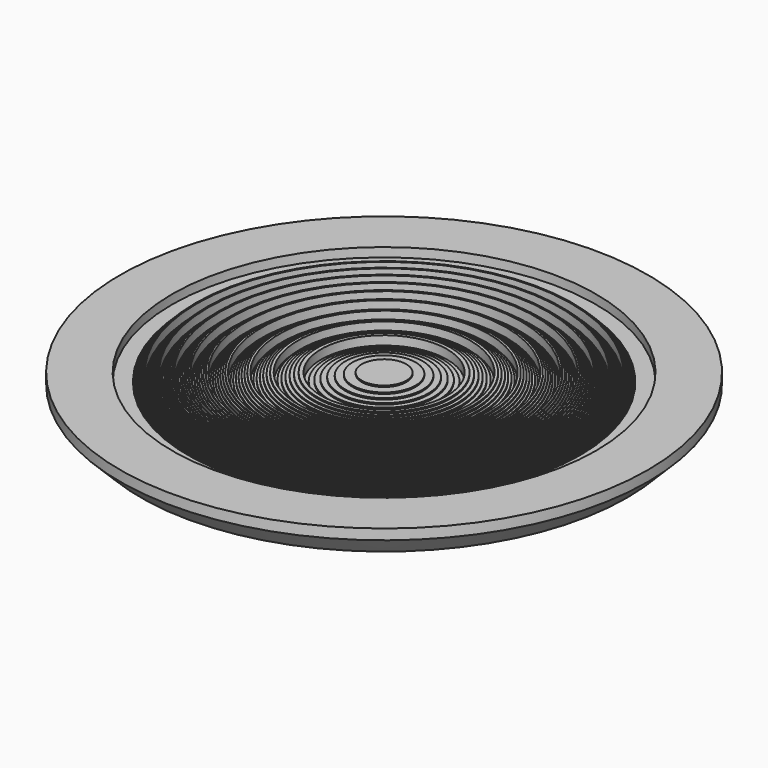
from build123d import *

# Parameters (mm, degrees)
F2_SIZE = 2


with BuildPart() as f1:
    # F0 (on Front) → F1 (revolve)
    with BuildSketch(Plane.XZ):
        Polygon((-10.558, 1.373492), (-10.558, 1.501507), (-12.7, 1.498492), (-12.7, -1.501508), (12.7, -1.501508), (12.7, 1.498492), (7.7, 1.498492), (7.7, 0.623492), (6.174, 0.623492), (6.174, 0.748492), (6.05, 0.748492), (6.05, 0.873492), (5.925, 0.873492), (5.925, 0.998492), (5.8, 0.998492), (5.8, 1.123492), (5.673, 1.123492), (5.673, 1.248492), (5.546, 1.248492), (5.546, 1.373492), (5.418, 1.373492), (5.418, 1.498492), (5.289, 1.498492), (5.289, 0.623492), (5.159, 0.623492), (5.159, 0.748492), (5.028, 0.748492), (5.028, 0.873492), (4.896, 0.873492), (4.896, 0.998492), (4.763, 0.998492), (4.763, 1.123492), (4.628998, 1.123492), (4.628998, 1.248492), (4.494, 1.248492), (4.494, 1.373492), (4.359, 1.373492), (4.359, 1.498492), (4.222, 1.498492), (4.222, 0.623492), (4.084, 0.623492), (4.084, 0.748492), (3.945, 0.748492), (3.945, 0.873492), (3.804, 0.873492), (3.804, 0.998492), (3.663, 0.998492), (3.663, 1.123492), (3.52, 1.123492), (3.52, 1.248492), (3.377, 1.248492), (3.377, 1.373492), (3.232, 1.373492), (3.232, 1.498492), (3.085, 1.498492), (3.085, 0.623492), (2.937, 0.623492), (2.937, 0.748492), (2.788, 0.748492), (2.788, 0.873492), (2.637998, 0.873492), (2.637998, 0.998492), (2.486, 0.998492), (2.486, 1.123492), (2.332, 1.123492), (2.332, 1.248492), (2.177, 1.248492), (2.177, 1.373492), (2.021, 1.373492), (2.021, 1.498492), (1.862, 1.498492), (1.862, 0.623492), (1.702, 0.623492), (1.702, 0.748492), (1.541, 0.748492), (1.541, 0.873492), (1.377, 0.873492), (1.377, 0.998492), (1.212, 0.998492), (1.212, 1.123492), (1.044, 1.123492), (1.044, 1.248492), (0.875, 1.248492), (0.875, 1.373492), (0.703, 1.373492), (0.703, 1.498492), (0.53, 1.498492), (0.53, 0.623492), (0.354, 0.623492), (0.354, 0.748492), (0.175, 0.748492), (0.175, 0.873492), (-0.006, 0.873492), (-0.006, 0.998492), (-0.189003, 0.998492), (-0.189003, 1.123492), (-0.375, 1.123492), (-0.375, 1.248492), (-0.564, 1.248492), (-0.564, 1.373492), (-0.756, 1.373492), (-0.756, 1.498492), (-0.951, 1.498492), (-0.951, 0.623492), (-1.149, 0.623492), (-1.149, 0.748492), (-1.35, 0.748492), (-1.35, 0.873492), (-1.555, 0.873492), (-1.555, 0.998492), (-1.764, 0.998492), (-1.764, 1.123492), (-1.977, 1.123492), (-1.977, 1.248492), (-2.195, 1.248492), (-2.195, 1.373492), (-2.416, 1.373492), (-2.416, 1.498492), (-2.643, 1.498492), (-2.643, 0.623492), (-2.875, 0.623492), (-2.875, 0.873492), (-3.112, 0.873492), (-3.112, 0.998492), (-3.355, 0.998492), (-3.355, 1.123492), (-3.605, 1.123492), (-3.605, 1.248492), (-3.862, 1.248492), (-3.862, 1.373492), (-4.126, 1.373492), (-4.126, 1.498492), (-4.399, 1.498492), (-4.399, 0.623492), (-4.681, 0.623492), (-4.681, 0.873492), (-4.973, 0.873492), (-4.973, 0.998492), (-5.277, 0.998492), (-5.277, 1.123492), (-5.593, 1.123492), (-5.593, 1.248492), (-5.924, 1.248492), (-5.924, 1.373492), (-6.272, 1.373492), (-6.272, 1.498492), (-6.64, 1.498492), (-6.64, 0.623492), (-7.032, 0.623492), (-7.032, 0.748492), (-7.453, 0.748492), (-7.453, 0.873492), (-7.91, 0.873492), (-7.91, 0.998492), (-8.416, 0.998492), (-8.416, 1.123492), (-8.99, 1.123492), (-8.99, 1.248492), (-9.671, 1.248492), (-9.671, 1.373492), align=None)
    revolve(axis=Axis((-12.7, 0, -0.001508), (0, 0, 1)))

    # F2
    f2_edges = [f1.edges().sort_by_distance(p)[0] for p in [
        (-38.1, 0, -1.501508),
    ]]
    chamfer(f2_edges, length=F2_SIZE)


solid = f1.part
